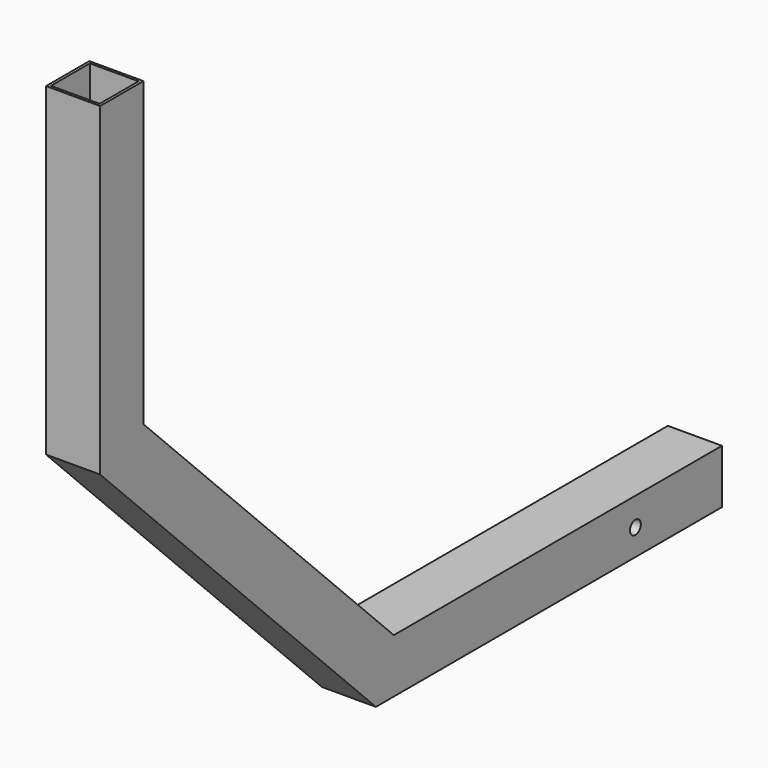
from build123d import *

# Parameters (mm, degrees)
F0_R     = 6.35
F1_DEPTH = 25.4
F2_T     = -2.54


with BuildPart() as f1:
    # F0 (on Right) → F1 (new body, symmetric)
    with BuildSketch(Plane.YZ):
        Polygon((-183.3137847563, -341.5853113772), (223.0862152437, -341.5853113772), (223.0862152437, -290.7853113772), (-162.2717357877, -290.7853113772), (-456.3637847563, 3.3067375913), (-456.3637847563, 287.0646886228), (-507.1637847563, 287.0646886228), (-507.1637847563, -17.7353113772), align=None)
        with Locations((121.4862152437, -316.9367909431)):
            Circle(F0_R, mode=Mode.SUBTRACT)
    extrude(amount=F1_DEPTH, both=True)

    # F2
    f2_openings = [f1.faces().sort_by_distance(p)[0] for p in [
        (0, 223.086215, -316.185311),
        (0, -481.763785, 287.064689),
    ]]
    offset(amount=F2_T, openings=f2_openings, kind=Kind.INTERSECTION)


solid = f1.part
